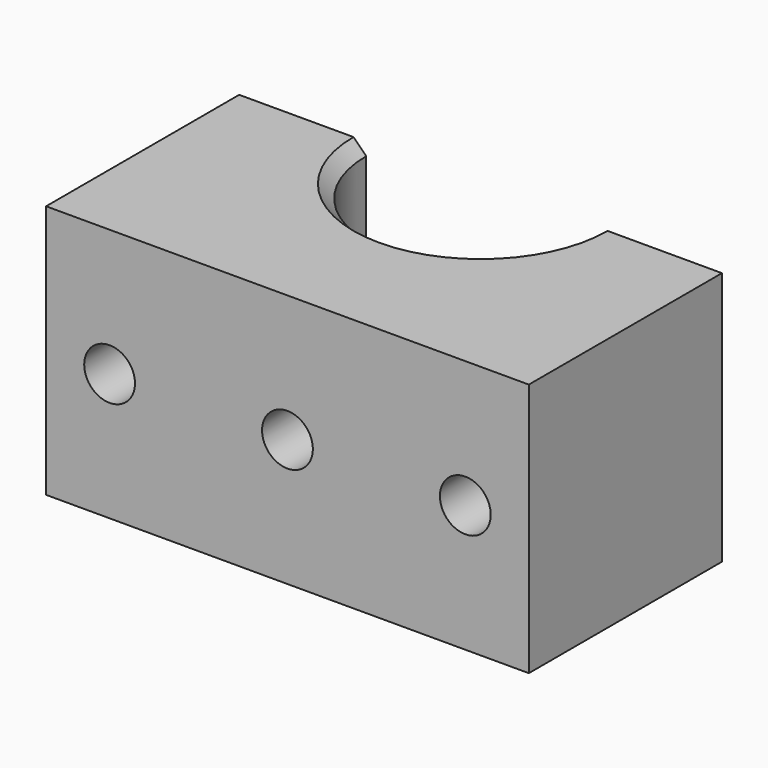
from build123d import *

# Parameters (mm, degrees)
F1_DEPTH = 20
F2_R     = 2
F3_DEPTH = 19.001
F4_R     = 2
F5_DEPTH = 8
F6_SIZE  = 1


with BuildPart() as f1:
    # F0 (on Top) → F1 (new body)
    with BuildSketch(Plane.XY):
        with BuildLine():
            Line((-9, 9.5), (-19, 9.5))
            Line((-19, 9.5), (-19, -9.5))
            Line((-19, -9.5), (19, -9.5))
            Line((19, -9.5), (19, 9.5))
            Line((19, 9.5), (9, 9.5))
            ThreePointArc((9, 9.5), (0, 0.5), (-9, 9.5))
        make_face()
    extrude(amount=F1_DEPTH)

    # F2 (on face) → F3 (cut, through all)
    with BuildSketch(Plane(origin=(0, 9.5, 0), x_dir=(-1, 0, 0), z_dir=(0, 1, 0))):
        with Locations((-14, 10)):
            Circle(F2_R)
        with Locations((14, 10)):
            Circle(F2_R)
    extrude(amount=-F3_DEPTH, mode=Mode.SUBTRACT)

    # F4 (on face) → F5 (cut)
    with BuildSketch(Plane.XZ.offset(9.5)):
        with Locations((0, 10)):
            Circle(F4_R)
    extrude(amount=-F5_DEPTH, mode=Mode.SUBTRACT)

    # F6
    f6_edges = [f1.edges().sort_by_distance(p)[0] for p in [
        (0, 0.5, 0),
        (0, 0.5, 20),
    ]]
    chamfer(f6_edges, length=F6_SIZE)


solid = f1.part
